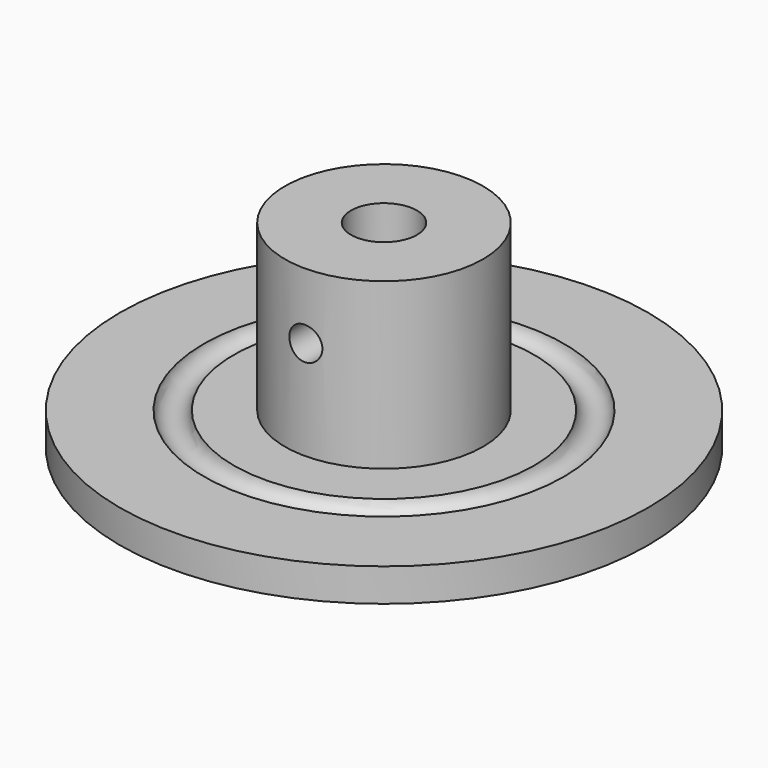
from build123d import *

# Parameters (mm, degrees)
SKETCH003_R  = 5
PAD002_DEPTH = 30
SKETCH004_R  = 2.5
PAD003_DEPTH = 15
SKETCH002_R  = 15
PAD001_DEPTH = 30
SKETCH001_R  = 2.3
SKETCH_R     = 40
PAD_DEPTH    = 5


with BuildPart() as pad002:
    # Sketch003 → Pad002 (new body)
    with BuildSketch(Plane.XY):
        Circle(SKETCH003_R)
    extrude(amount=PAD002_DEPTH)


with BuildPart() as pad003:
    # Sketch004 → Pad003 (new body, symmetric)
    with BuildSketch(Plane.XZ):
        with Locations((0, 20)):
            Circle(SKETCH004_R)
    extrude(amount=PAD003_DEPTH, both=True)


with BuildPart() as post:
    # Sketch002 → Pad001 (new body)
    with BuildSketch(Plane.XY):
        Circle(SKETCH002_R)
    extrude(amount=PAD001_DEPTH)

    # Cut002: cut Pad003
    add(pad003.part, mode=Mode.SUBTRACT)

    # Cut003: cut Pad002
    add(pad002.part, mode=Mode.SUBTRACT)


with BuildPart() as revolution:
    # Sketch001 → Revolution (revolve)
    with BuildSketch(Plane.XZ):
        with Locations((25, 5.4)):
            Circle(SKETCH001_R)
    revolve(axis=Axis((0, 0, 0), (0, 0, 1)))


with BuildPart() as fusion:
    # Sketch → Pad (new body)
    with BuildSketch(Plane.XY):
        Circle(SKETCH_R)
    extrude(amount=PAD_DEPTH)

    # Cut: cut Revolution
    add(revolution.part, mode=Mode.SUBTRACT)

    # Fusion: union post
    add(post.part)


solid = fusion.part
